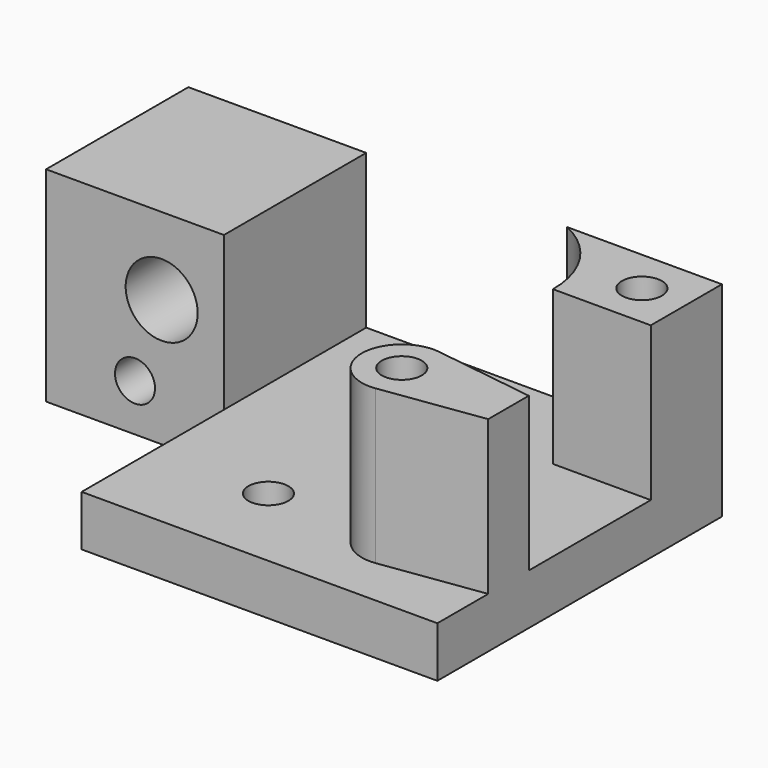
from build123d import *

# Parameters (mm, degrees)
SKETCH_R        = 2.25
PAD_DEPTH       = 23
POCKET_DEPTH    = 17.3
SKETCH002_R     = 4.05
SKETCH002_R_2   = 2.25
POCKET001_DEPTH = 20.001
SKETCH003_R     = 2.25
POCKET002_DEPTH = 10
SKETCH004_R     = 3.75
POCKET003_DEPTH = 10
SKETCH005_R     = 3.75
POCKET004_DEPTH = 9.2


with BuildPart() as part:
    # Sketch → Pad (new body)
    with BuildSketch(Plane.XY):
        Polygon((0, -20), (40, -20), (40, 20), (-20, 20), (-20, 0), (0, 0), align=None)
        with Locations((18, 8)):
            Circle(SKETCH_R, mode=Mode.SUBTRACT)
        with Locations((13, -10)):
            Circle(SKETCH_R, mode=Mode.SUBTRACT)
        with Locations((28, -10)):
            Circle(SKETCH_R, mode=Mode.SUBTRACT)
    extrude(amount=PAD_DEPTH)

    # Sketch001 → Pocket (cut)
    with BuildSketch(Plane.XY.offset(23)):
        with BuildLine():
            Line((46, 10), (29, 10))
            ThreePointArc((29, 10), (25.778159, 17.77819), (17.999956, 21))
            Line((17.999956, 21), (0, 21))
            Line((0, 21), (0, -23))
            Line((0, -23), (46, -23))
            Line((46, -23), (46, -12))
            Line((28.629923, -14.455693), (46, -12))
            ThreePointArc((28.629923, -5.544307), (23.5, -10), (28.629923, -14.455693))
            Line((28.629923, -5.544307), (46, -8))
            Line((46, -8), (46, 10))
        make_face()
    extrude(amount=-POCKET_DEPTH, mode=Mode.SUBTRACT)

    # Sketch002 → Pocket001 (cut, through all)
    with BuildSketch(Plane.XZ):
        with Locations((-7, 14.3)):
            Circle(SKETCH002_R)
        with Locations((-10, 5.3)):
            Circle(SKETCH002_R_2)
    extrude(amount=-POCKET001_DEPTH, mode=Mode.SUBTRACT)

    # Sketch003 → Pocket002 (cut)
    with BuildSketch(Plane.XY.offset(23)):
        with Locations((35, 15)):
            Circle(SKETCH003_R)
    extrude(amount=-POCKET002_DEPTH, mode=Mode.SUBTRACT)

    # Sketch004 → Pocket003 (cut)
    with BuildSketch(Plane(origin=(0, 20, 0), x_dir=(-1, 0, 0), z_dir=(0, 1, 0))):
        with Locations((10, 5.3)):
            Circle(SKETCH004_R)
    extrude(amount=-POCKET003_DEPTH, mode=Mode.SUBTRACT)

    # Sketch005 → Pocket004 (cut)
    with BuildSketch(Plane(origin=(0, 0, 0), x_dir=(1, 0, 0), z_dir=(0, 0, -1))):
        with Locations((28, 10)):
            Circle(SKETCH005_R)
    extrude(amount=-POCKET004_DEPTH, mode=Mode.SUBTRACT)


solid = part.part
